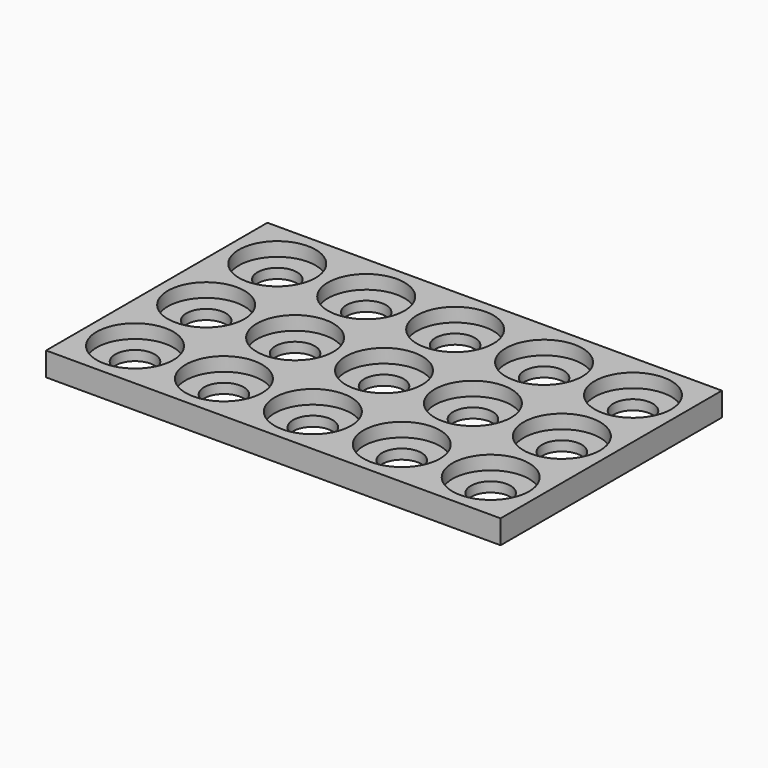
from build123d import *

# Parameters (mm, degrees)
F0_W     = 230
F0_H     = 140
F1_DEPTH = 12
F2_R     = 19.375
F2_R_2   = 10
F3_DEPTH = 7
F4_DEPTH = 25


with BuildPart() as f1:
    # F0 (on Top) → F1 (new body)
    with BuildSketch(Plane.XY):
        with Locations((57.0600198209, 31.2740390003)):
            Rectangle(F0_W, F0_H)
    extrude(amount=F1_DEPTH)

    # F2 (on face) → F3 (cut)
    with BuildSketch(Plane.XY.offset(12)):
        with Locations((-32.9399801791, 76.2740390003)):
            Circle(F2_R)
        with Locations((-32.9399801791, 76.2740390003)):
            Circle(F2_R_2, mode=Mode.SUBTRACT)
        with Locations((-32.9399801791, 31.2740390003)):
            Circle(F2_R)
        with Locations((-32.9399801791, 31.2740390003)):
            Circle(F2_R_2, mode=Mode.SUBTRACT)
        with Locations((-32.9399801791, -13.7259609997)):
            Circle(F2_R)
        with Locations((-32.9399801791, -13.7259609997)):
            Circle(F2_R_2, mode=Mode.SUBTRACT)
        with Locations((12.0600198209, -13.7259609997)):
            Circle(F2_R)
        with Locations((12.0600198209, -13.7259609997)):
            Circle(F2_R_2, mode=Mode.SUBTRACT)
        with Locations((12.0600198209, 31.2740390003)):
            Circle(F2_R)
        with Locations((12.0600198209, 31.2740390003)):
            Circle(F2_R_2, mode=Mode.SUBTRACT)
        with Locations((12.0600198209, 76.2740390003)):
            Circle(F2_R)
        with Locations((12.0600198209, 76.2740390003)):
            Circle(F2_R_2, mode=Mode.SUBTRACT)
        with Locations((57.0600198209, 76.2740390003)):
            Circle(F2_R)
        with Locations((57.0600198209, 76.2740390003)):
            Circle(F2_R_2, mode=Mode.SUBTRACT)
        with Locations((57.0600198209, 31.2740390003)):
            Circle(F2_R)
        with Locations((57.0600198209, 31.2740390003)):
            Circle(F2_R_2, mode=Mode.SUBTRACT)
        with Locations((57.0600198209, -13.7259609997)):
            Circle(F2_R)
        with Locations((57.0600198209, -13.7259609997)):
            Circle(F2_R_2, mode=Mode.SUBTRACT)
        with Locations((102.0600198209, -13.7259609997)):
            Circle(F2_R)
        with Locations((102.0600198209, -13.7259609997)):
            Circle(F2_R_2, mode=Mode.SUBTRACT)
        with Locations((102.0600198209, 31.2740390003)):
            Circle(F2_R)
        with Locations((102.0600198209, 31.2740390003)):
            Circle(F2_R_2, mode=Mode.SUBTRACT)
        with Locations((102.0600198209, 76.2740390003)):
            Circle(F2_R)
        with Locations((102.0600198209, 76.2740390003)):
            Circle(F2_R_2, mode=Mode.SUBTRACT)
        with Locations((147.0600198209, 76.2740390003)):
            Circle(F2_R)
        with Locations((147.0600198209, 76.2740390003)):
            Circle(F2_R_2, mode=Mode.SUBTRACT)
        with Locations((147.0600198209, 31.2740390003)):
            Circle(F2_R)
        with Locations((147.0600198209, 31.2740390003)):
            Circle(F2_R_2, mode=Mode.SUBTRACT)
        with Locations((147.0600198209, -13.7259609997)):
            Circle(F2_R)
        with Locations((147.0600198209, -13.7259609997)):
            Circle(F2_R_2, mode=Mode.SUBTRACT)
    extrude(amount=-F3_DEPTH, mode=Mode.SUBTRACT)

    # F4 (cut): faces of the model
    f4_faces = [f1.faces().sort_by_distance(p)[0] for p in [
        (-32.9399801791, 76.2740390003, 12),
        (12.0600198209, 76.2740390003, 12),
        (57.0600198209, 76.2740390003, 12),
        (102.0600198209, 76.2740390003, 12),
        (147.0600198209, 76.2740390003, 12),
        (147.0600198209, 31.2740390003, 12),
        (102.0600198209, 31.2740390003, 12),
        (57.0600198209, 31.2740390003, 12),
        (12.0600198209, 31.2740390003, 12),
        (-32.9399801791, 31.2740390003, 12),
        (-32.9399801791, -13.7259609997, 12),
        (12.0600198209, -13.7259609997, 12),
        (57.0600198209, -13.7259609997, 12),
        (102.0600198209, -13.7259609997, 12),
        (147.0600198209, -13.7259609997, 12),
    ]]
    extrude(f4_faces, amount=-F4_DEPTH, mode=Mode.SUBTRACT)


solid = f1.part
